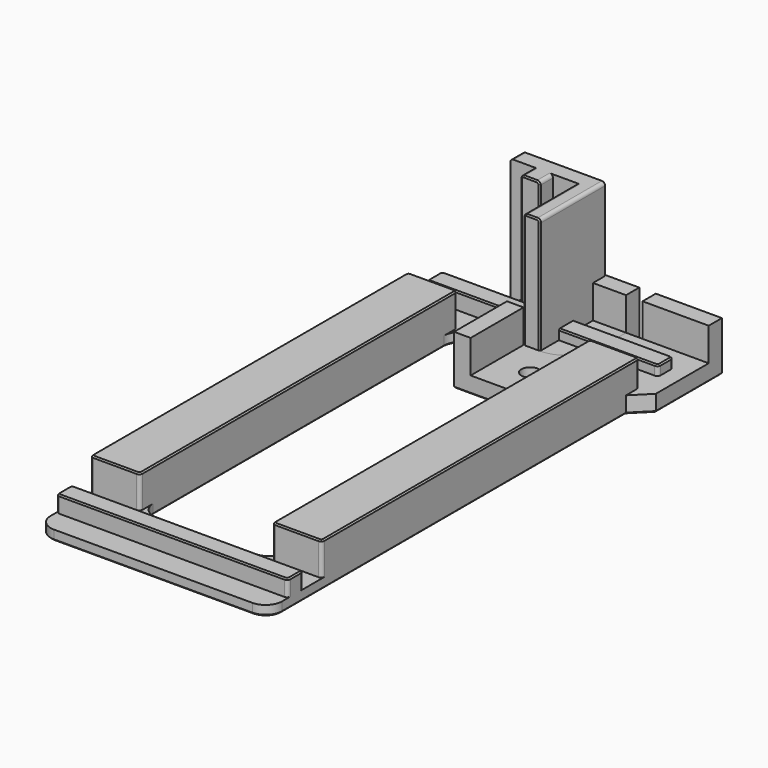
from build123d import *

# Parameters (mm, degrees)
SKETCH_R        = 2.65
PAD_DEPTH       = 5
SKETCH001_W     = 20
SKETCH001_H     = 5
SKETCH001_W_2   = 5
SKETCH001_H_2   = 20
PAD001_DEPTH    = 10
FILLET_R        = 10
CHAMFER_SIZE    = 0.4
SKETCH002_W     = 30
SKETCH002_H     = 25
SKETCH002_R     = 2.65
PAD002_DEPTH    = 5
SKETCH003_W     = 30
SKETCH003_H     = 5
PAD003_DEPTH    = 10
FILLET001_R     = 10
CHAMFER001_SIZE = 0.4
SKETCH004_W     = 70
SKETCH004_H     = 160
SKETCH004_W_2   = 40
SKETCH004_H_2   = 120
PAD004_DEPTH    = 13
SKETCH005_W     = 70
SKETCH005_H     = 20
POCKET_DEPTH    = 10
SKETCH006_W     = 70
SKETCH006_H     = 5.8
PAD005_DEPTH    = 5
FILLET002_R     = 5
FILLET003_R     = 1
CHAMFER002_SIZE = 0.4
PAD006_DEPTH    = 40
FILLET004_R     = 1
CHAMFER003_SIZE = 0.4


with BuildPart() as corner_drill_jig:
    # Sketch → Pad (new body)
    with BuildSketch(Plane.XY):
        Polygon((0, 0), (0, -20), (-5, -20), (-5, -40), (20, -40), (40, -20), (40, 5), (20, 5), (20, 0), align=None)
        with Locations((30, -10)):
            Circle(SKETCH_R, mode=Mode.SUBTRACT)
        with Locations((10, -30)):
            Circle(SKETCH_R, mode=Mode.SUBTRACT)
    extrude(amount=PAD_DEPTH)

    # Sketch001 (on Face13 of Pad) → Pad001 (join)
    with BuildSketch(Plane.XY.offset(5)):
        with Locations((30, 2.5)):
            Rectangle(SKETCH001_W, SKETCH001_H)
        with Locations((-2.5, -30)):
            Rectangle(SKETCH001_W_2, SKETCH001_H_2)
    extrude(amount=PAD001_DEPTH)

    # Fillet
    fillet_edges = [corner_drill_jig.edges().sort_by_distance(p)[0] for p in [
        (0, 0, 2.5),
    ]]
    fillet(fillet_edges, radius=FILLET_R)

    # Chamfer
    chamfer_edges = [corner_drill_jig.edges().sort_by_distance(p)[0] for p in [
        (0, -15, 0),
        (2.928932, -2.928932, 0),
        (-2.5, -20, 0),
        (15, 0, 0),
        (-5, -30, 0),
        (20, 2.5, 0),
        (7.5, -40, 0),
        (30, 5, 0),
        (30, -30, 0),
        (40, -7.5, 0),
        (7.35, -30, 0),
        (27.35, -10, 0),
    ]]
    chamfer(chamfer_edges, length=CHAMFER_SIZE)


with BuildPart() as edge_drill_jig:
    # Sketch002 → Pad002 (new body)
    with BuildSketch(Plane.XY):
        with Locations((0, -7.5)):
            Rectangle(SKETCH002_W, SKETCH002_H)
        with Locations((0, -10)):
            Circle(SKETCH002_R, mode=Mode.SUBTRACT)
    extrude(amount=PAD002_DEPTH)

    # Sketch003 (on Face7 of Pad002) → Pad003 (join)
    with BuildSketch(Plane.XY.offset(5)):
        with Locations((0, 2.5)):
            Rectangle(SKETCH003_W, SKETCH003_H)
    extrude(amount=PAD003_DEPTH)

    # Fillet001
    fillet001_edges = [edge_drill_jig.edges().sort_by_distance(p)[0] for p in [
        (-15, -20, 2.5),
        (15, -20, 2.5),
    ]]
    fillet(fillet001_edges, radius=FILLET001_R)

    # Chamfer001
    chamfer001_edges = [edge_drill_jig.edges().sort_by_distance(p)[0] for p in [
        (15, -2.5, 0),
        (12.071068, -17.071068, 0),
        (0, 5, 0),
        (0, -20, 0),
        (-15, -2.5, 0),
        (-12.071068, -17.071068, 0),
        (-2.65, -10, 0),
    ]]
    chamfer(chamfer001_edges, length=CHAMFER001_SIZE)


with BuildPart() as f_120mm_spacer:
    # Sketch004 → Pad004 (new body)
    with BuildSketch(Plane.XY):
        with Locations((0, -80)):
            Rectangle(SKETCH004_W, SKETCH004_H)
        with Locations((0, -80)):
            Rectangle(SKETCH004_W_2, SKETCH004_H_2, mode=Mode.SUBTRACT)
    extrude(amount=PAD004_DEPTH)

    # Sketch005 (on Face10 of Pad004) → Pocket (cut)
    with BuildSketch(Plane.XY.offset(13)):
        with Locations((0, -10)):
            Rectangle(SKETCH005_W, SKETCH005_H)
        with Locations((0, -150)):
            Rectangle(SKETCH005_W, SKETCH005_H)
    extrude(amount=-POCKET_DEPTH, mode=Mode.SUBTRACT)

    # Sketch006 (on Face11 of Pocket) → Pad005 (join)
    with BuildSketch(Plane.XY.offset(3)):
        with Locations((0, -10)):
            Rectangle(SKETCH006_W, SKETCH006_H)
        with Locations((0, -150)):
            Rectangle(SKETCH006_W, SKETCH006_H)
    extrude(amount=PAD005_DEPTH)

    # Fillet002
    fillet002_edges = [f_120mm_spacer.edges().sort_by_distance(p)[0] for p in [
        (-35, -160, 1.5),
        (35, -160, 1.5),
        (-35, 0, 1.5),
        (35, 0, 1.5),
        (-20, -140, 1.5),
        (20, -140, 1.5),
        (20, -20, 1.5),
        (-20, -20, 1.5),
    ]]
    fillet(fillet002_edges, radius=FILLET002_R)

    # Fillet003
    fillet003_edges = [f_120mm_spacer.edges().sort_by_distance(p)[0] for p in [
        (-35, -7.1, 5.5),
        (-35, -12.9, 5.5),
        (35, -20, 8),
        (20, -20, 8),
        (-20, -20, 8),
        (-35, -20, 8),
        (35, -12.9, 5.5),
        (35, -7.1, 5.5),
        (-35, -140, 8),
        (-20, -140, 8),
        (20, -140, 8),
        (35, -140, 8),
        (35, -152.9, 5.5),
        (35, -147.1, 5.5),
        (-35, -147.1, 5.5),
        (-35, -152.9, 5.5),
    ]]
    fillet(fillet003_edges, radius=FILLET003_R)

    # Chamfer002
    chamfer002_edges = [f_120mm_spacer.edges().sort_by_distance(p)[0] for p in [
        (35, -80, 13),
        (34.707107, -20.292893, 13),
        (34.707107, -139.707107, 13),
        (27.5, -20, 13),
        (27.5, -140, 13),
        (20.292893, -20.292893, 13),
        (20.292893, -139.707107, 13),
        (20, -80, 13),
        (-27.5, -20, 13),
        (-20.292893, -20.292893, 13),
        (-34.707107, -20.292893, 13),
        (-20, -80, 13),
        (-35, -80, 13),
        (-20.292893, -139.707107, 13),
        (-34.707107, -139.707107, 13),
        (-27.5, -140, 13),
        (0, -7.1, 8),
        (-34.707107, -7.392893, 8),
        (34.707107, -7.392893, 8),
        (-35, -10, 8),
        (35, -10, 8),
        (-34.707107, -12.607107, 8),
        (34.707107, -12.607107, 8),
        (0, -12.9, 8),
        (0, -147.1, 8),
        (-34.707107, -147.392893, 8),
        (34.707107, -147.392893, 8),
        (-35, -150, 8),
        (35, -150, 8),
        (-34.707107, -152.607107, 8),
        (34.707107, -152.607107, 8),
        (0, -152.9, 8),
        (0, 0, 0),
        (-33.535534, -1.464466, 0),
        (33.535534, -1.464466, 0),
        (-35, -80, 0),
        (35, -80, 0),
        (-33.535534, -158.535534, 0),
        (33.535534, -158.535534, 0),
        (0, -160, 0),
        (0, -20, 0),
        (-18.535534, -21.464466, 0),
        (18.535534, -21.464466, 0),
        (-20, -80, 0),
        (20, -80, 0),
        (-18.535534, -138.535534, 0),
        (18.535534, -138.535534, 0),
        (0, -140, 0),
    ]]
    chamfer(chamfer002_edges, length=CHAMFER002_SIZE)


with BuildPart() as f_40mm_corner_spacer:
    # Sketch007 → Pad006 (new body)
    with BuildSketch(Plane.XY):
        Polygon((-20, 0), (-12.9, 0), (-12.9, -5), (-7.1, -5), (-7.1, 0), (0, 0), (0, -20), (5, -20), (5, 5), (-20, 5), align=None)
    extrude(amount=PAD006_DEPTH)

    # Fillet004
    fillet004_edges = [f_40mm_corner_spacer.edges().sort_by_distance(p)[0] for p in [
        (-20, 2.5, 40),
        (-20, 2.5, 0),
        (-12.9, -2.5, 40),
        (-12.9, -2.5, 0),
        (-7.1, -2.5, 0),
        (0, -10, 0),
        (5, -7.5, 0),
        (5, -7.5, 40),
        (0, -10, 40),
        (-7.1, -2.5, 40),
    ]]
    fillet(fillet004_edges, radius=FILLET004_R)

    # Chamfer003
    chamfer003_edges = [f_40mm_corner_spacer.edges().sort_by_distance(p)[0] for p in [
        (0, -20, 20),
        (0.292893, -20, 0.292893),
        (0.292893, -20, 39.707107),
        (2.5, -20, 0),
        (2.5, -20, 40),
        (4.707107, -20, 0.292893),
        (4.707107, -20, 39.707107),
        (5, -20, 20),
        (-12.9, -5, 20),
        (-12.607107, -5, 0.292893),
        (-12.607107, -5, 39.707107),
        (-10, -5, 0),
        (-10, -5, 40),
        (-7.392893, -5, 0.292893),
        (-7.392893, -5, 39.707107),
        (-7.1, -5, 20),
        (5, 5, 20),
        (4.707107, 5, 0.292893),
        (4.707107, 5, 39.707107),
        (-7.5, 5, 0),
        (-7.5, 5, 40),
        (-19.707107, 5, 0.292893),
        (-19.707107, 5, 39.707107),
        (-20, 5, 20),
    ]]
    chamfer(chamfer003_edges, length=CHAMFER003_SIZE)


solid = Compound([corner_drill_jig.part, edge_drill_jig.part, f_120mm_spacer.part, f_40mm_corner_spacer.part])
